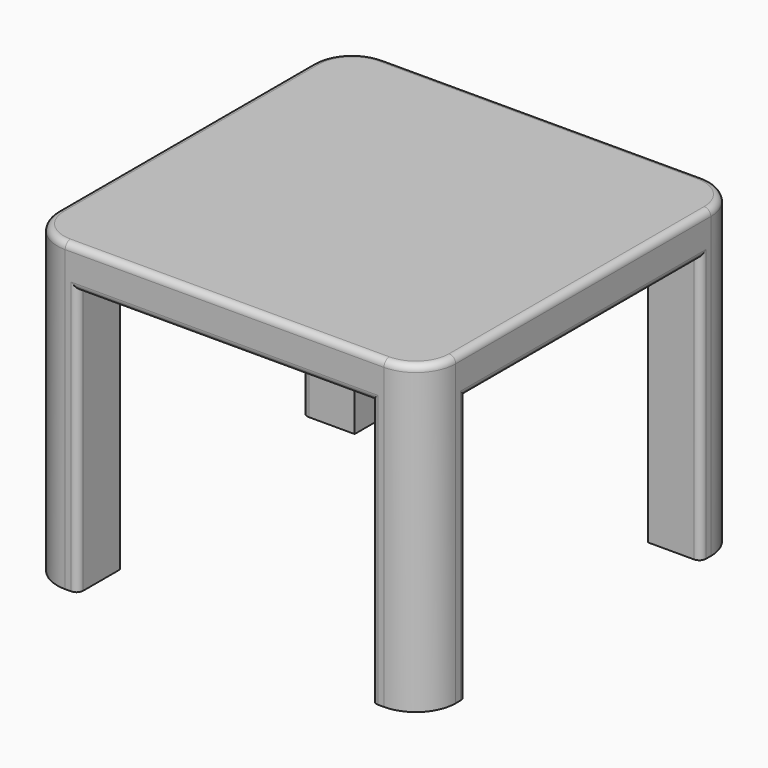
from build123d import *

# Parameters (mm, degrees)
F0_W     = 600
F0_H     = 600
F1_DEPTH = 60
F2_W     = 79.0521234274
F2_H     = 79.0521234274
F3_DEPTH = 400
F4_R     = 60
F5_R     = 10


with BuildPart() as f1:
    # F0 (on Top) → F1 (new body)
    with BuildSketch(Plane.XY):
        Rectangle(F0_W, F0_H)
    extrude(amount=F1_DEPTH)

    # F2 (on face) → F3 (join)
    with BuildSketch(Plane(origin=(0, 0, 0), x_dir=(1, 0, 0), z_dir=(0, 0, -1))):
        with Locations((-260.4739382863, 260.4739382863)):
            Rectangle(F2_W, F2_H)
        with Locations((260.4739382863, 260.4739382863)):
            Rectangle(F2_W, F2_H)
        with Locations((-260.4739382863, -260.4739382863)):
            Rectangle(F2_W, F2_H)
        with Locations((260.4739382863, -260.4739382863)):
            Rectangle(F2_W, F2_H)
    extrude(amount=F3_DEPTH)

    # F4
    f4_edges = [f1.edges().sort_by_distance(p)[0] for p in [
        (-300, -300, -170),
        (-300, 300, -170),
        (300, 300, -170),
        (300, -300, -170),
    ]]
    fillet(f4_edges, radius=F4_R)

    # F5
    f5_edges = [f1.edges().sort_by_distance(p)[0] for p in [
        (0, 300, 60),
        (0, 300, 0),
        (220.947877, 300, -200),
        (-220.947877, 300, -200),
        (-300, 0, 0),
        (-300, 220.947877, -200),
        (-300, -220.947877, -200),
        (0, -300, 0),
        (-220.947877, -300, -200),
        (220.947877, -300, -200),
        (300, 0, 0),
        (300, -220.947877, -200),
        (300, 220.947877, -200),
    ]]
    fillet(f5_edges, radius=F5_R)


solid = f1.part
